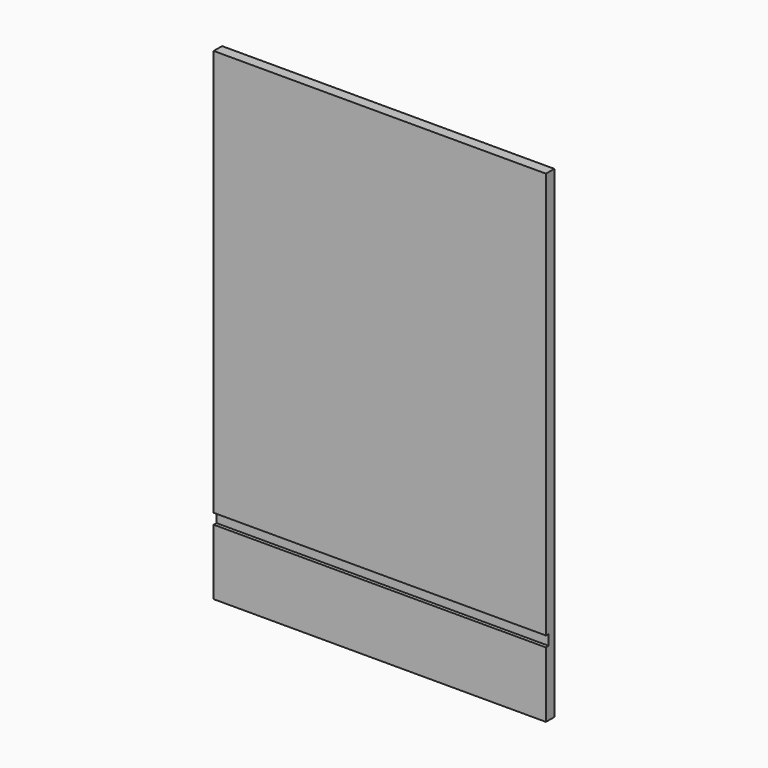
from build123d import *

# Parameters (mm, degrees)
F0_W     = 603.25
F0_H     = 438.15
F1_DEPTH = 9.525
F3_W     = 603.25
F3_H     = 19.05
F4_DEPTH = 6.35


with BuildPart() as f1:
    # F0 (on Front) → F1 (new body, symmetric)
    with BuildSketch(Plane.XZ):
        with Locations((53.7210046741, 219.075)):
            Rectangle(F0_W, F0_H)
        with Locations((53.7210046741, -219.075)):
            Rectangle(F0_W, F0_H)
    extrude(amount=F1_DEPTH, both=True)

    # F3 (on face) → F4 (cut)
    with BuildSketch(Plane.XZ.offset(9.525)):
        with Locations((53.7210046741, -309.5625)):
            Rectangle(F3_W, F3_H)
    extrude(amount=-F4_DEPTH, mode=Mode.SUBTRACT)


solid = f1.part
